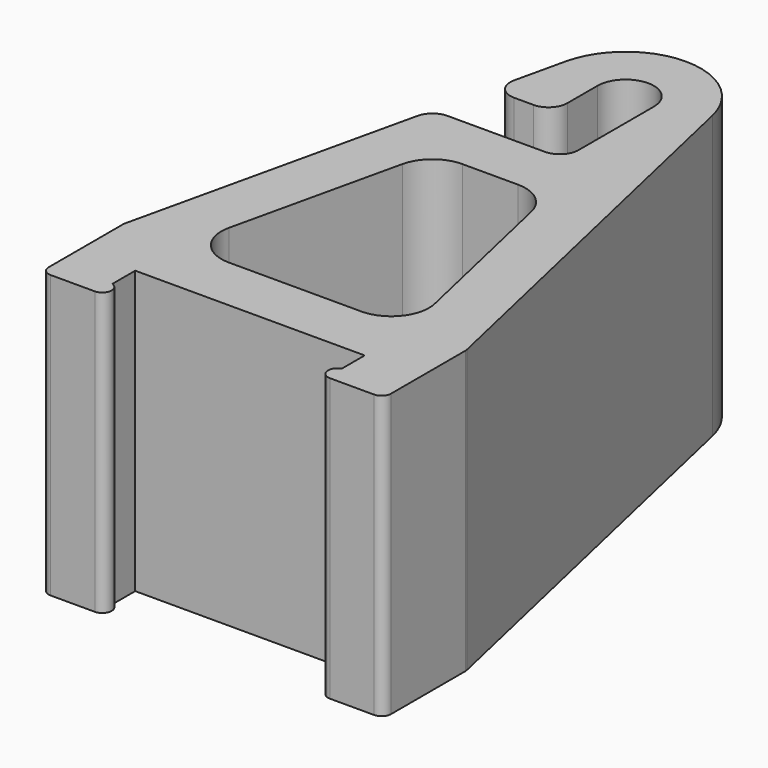
from build123d import *

# Parameters (mm, degrees)
F1_DEPTH = 15
F3_DEPTH = 25


with BuildPart() as f1:
    # F0 (on Top) → F1 (new body)
    with BuildSketch(Plane.XY):
        with BuildLine():
            Line((-58.077113, -42.047169), (-51.977113, -42.047169))
            Line((-51.977113, -42.047169), (-45.877113, -42.047169))
            Line((-45.877113, -42.047169), (-45.877113, -43.279577))
            Line((-45.877113, -43.279577), (-45.877113, -43.547169))
            Line((-45.877113, -43.547169), (-46.003076, -43.631144))
            ThreePointArc((-46.003076, -43.631144), (-46.204272, -44.192061), (-45.725726, -44.547169))
            Line((-45.725726, -44.547169), (-43.377113, -44.547169))
            ThreePointArc((-43.377113, -44.547169), (-43.02356, -44.400723), (-42.877113, -44.047169))
            Line((-42.877113, -44.047169), (-42.877113, -39.103327))
            ThreePointArc((-42.877113, -39.103327), (-42.880238, -39.04752), (-42.889571, -38.992411))
            Line((-42.889571, -38.992411), (-48.076774, -16.19152))
            ThreePointArc((-48.076774, -16.19152), (-51.977113, -13.078847), (-55.877453, -16.19152))
            Line((-55.877453, -16.19152), (-56.483853, -18.857015))
            ThreePointArc((-56.483853, -18.857015), (-56.29038, -19.702613), (-55.508769, -20.078847))
            Line((-55.508769, -20.078847), (-54.477113, -20.078847))
            ThreePointArc((-54.477113, -20.078847), (-53.770007, -19.785954), (-53.477113, -19.078847))
            Line((-53.477113, -19.078847), (-53.477113, -17.078847))
            ThreePointArc((-53.477113, -17.078847), (-51.977113, -15.578847), (-50.477113, -17.078847))
            Line((-50.477113, -17.078847), (-50.477113, -20.078847))
            Line((-50.477113, -20.078847), (-50.477113, -22.078847))
            ThreePointArc((-50.477113, -22.078847), (-50.770007, -22.785954), (-51.477113, -23.078847))
            Line((-51.477113, -23.078847), (-56.646269, -23.078847))
            ThreePointArc((-56.646269, -23.078847), (-57.270035, -23.297236), (-57.621353, -23.857015))
            Line((-57.621353, -23.857015), (-61.064656, -38.992411))
            ThreePointArc((-61.064656, -38.992411), (-61.073989, -39.04752), (-61.077113, -39.103327))
            Line((-61.077113, -39.103327), (-61.077113, -44.047169))
            ThreePointArc((-61.077113, -44.047169), (-60.930667, -44.400723), (-60.577113, -44.547169))
            Line((-60.577113, -44.547169), (-58.228501, -44.547169))
            ThreePointArc((-58.228501, -44.547169), (-57.749955, -44.192061), (-57.951151, -43.631144))
            Line((-57.951151, -43.631144), (-58.077113, -43.547169))
            Line((-58.077113, -43.547169), (-58.077113, -43.279577))
            Line((-58.077113, -43.279577), (-58.077113, -42.047169))
        make_face()
    extrude(amount=F1_DEPTH)

    # F2 (on face) → F3 (cut)
    with BuildSketch(Plane.XY.offset(15)):
        with BuildLine():
            ThreePointArc((-53.454062, -26.078847), (-54.701594, -26.515625), (-55.404232, -27.635184))
            Line((-55.404232, -27.635184), (-57.444525, -36.603506))
            ThreePointArc((-57.444525, -36.603506), (-57.057577, -38.294701), (-55.494355, -39.047169))
            Line((-55.494355, -39.047169), (-48.459872, -39.047169))
            ThreePointArc((-48.459872, -39.047169), (-46.89665, -38.294701), (-46.509702, -36.603506))
            Line((-46.509702, -36.603506), (-48.549995, -27.635184))
            ThreePointArc((-48.549995, -27.635184), (-49.252633, -26.515625), (-50.500165, -26.078847))
            Line((-50.500165, -26.078847), (-53.454062, -26.078847))
        make_face()
    extrude(amount=-F3_DEPTH, mode=Mode.SUBTRACT)


solid = f1.part
